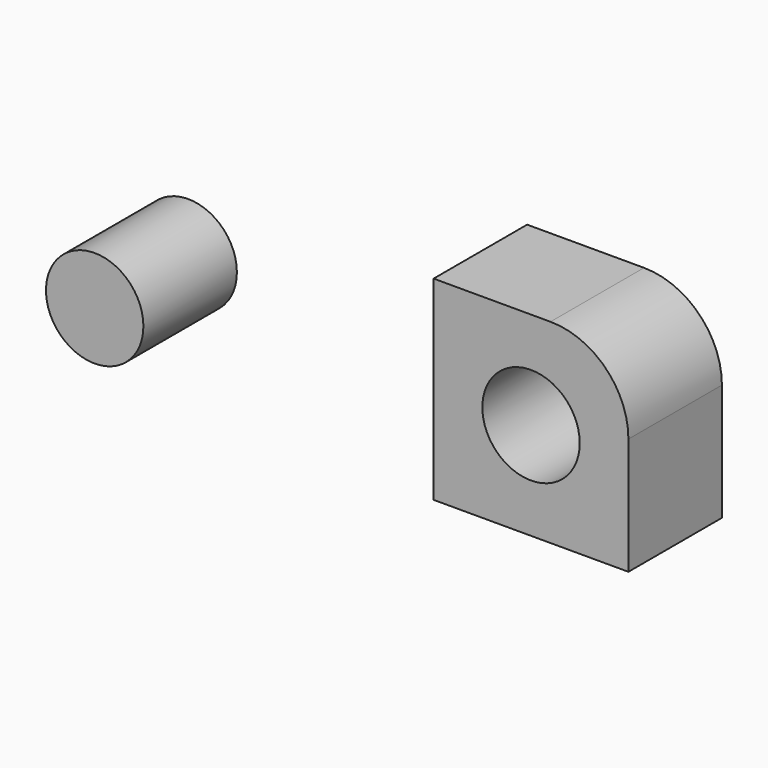
from build123d import *

# Parameters (mm, degrees)
F0_W     = 127
F0_H     = 76.2
F1_DEPTH = 63.5
F2_R     = 50.8
F3_R     = 31.75
F4_DEPTH = 76.201
F5_R     = 31.75
F6_DEPTH = 38.1


with BuildPart() as f1:
    # F0 (on Top) → F1 (new body, symmetric)
    with BuildSketch(Plane.XY):
        Rectangle(F0_W, F0_H)
    extrude(amount=F1_DEPTH, both=True)

    # F2
    f2_edges = [f1.edges().sort_by_distance(p)[0] for p in [
        (63.5, 0, 63.5),
    ]]
    fillet(f2_edges, radius=F2_R)

    # F3 (on face) → F4 (cut, through all)
    with BuildSketch(Plane.XZ.offset(38.1)):
        Circle(F3_R)
    extrude(amount=-F4_DEPTH, mode=Mode.SUBTRACT)


with BuildPart() as f6:
    # F5 (on face) → F6 (new body, symmetric)
    with BuildSketch(Plane.XZ.offset(38.1)):
        with Locations((-254, 0)):
            Circle(F5_R)
    extrude(amount=F6_DEPTH, both=True)


solid = Compound([f1.part, f6.part])
